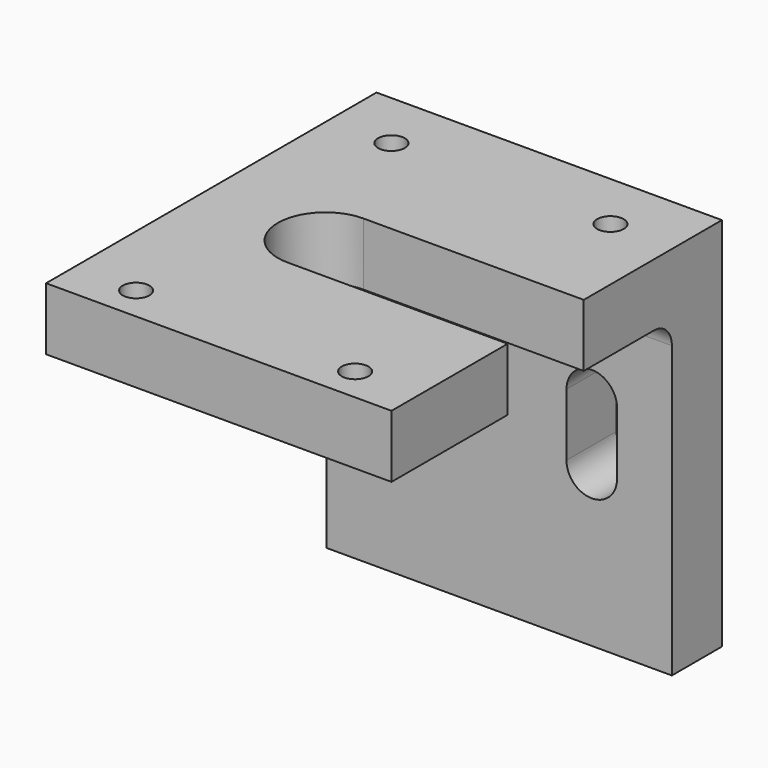
from build123d import *

# Parameters (mm, degrees)
F1_DEPTH = 17.526
F3_DEPTH = 6.35
F5_D     = 2.7051
F5_DEPTH = 8.73125
F5_TIP   = 0.8126940303
F7_DEPTH = 6.35


with BuildPart() as f1:
    # F0 (on Right) → F1 (new body, symmetric)
    with BuildSketch(Plane.YZ):
        with BuildLine():
            Line((0, 0), (-41.91, 0))
            Line((-41.91, 0), (-41.91, -6.35))
            Line((-41.91, -6.35), (-8.636, -6.35))
            ThreePointArc((-8.636, -6.35), (-7.0195538982, -7.0195538982), (-6.35, -8.636))
            Line((-6.35, -8.636), (-6.35, -38.1))
            Line((-6.35, -38.1), (0, -38.1))
            Line((0, -38.1), (0, 0))
        make_face()
    extrude(amount=F1_DEPTH, both=True)

    # F2 (on face) → F3 (cut, through all)
    with BuildSketch(Plane.XY):
        with BuildLine():
            Line((17.526, -27.178), (17.526, -17.526))
            Line((17.526, -17.526), (-4.826, -17.526))
            ThreePointArc((-4.826, -17.526), (-9.652, -22.352), (-4.826, -27.178))
            Line((-4.826, -27.178), (17.526, -27.178))
        make_face()
    extrude(amount=-F3_DEPTH, mode=Mode.SUBTRACT)

    # F5
    with Locations(Plane.XY):
        with Locations((-11.176, -6.0452), (11.049, -6.0452), (-11.176, -38.4302), (11.049, -38.4302)):
            Hole(F5_D / 2, depth=F5_DEPTH)
            with Locations((0, 0, -(F5_DEPTH + F5_TIP / 2))):  # 118° drill point
                Cone(0, F5_D / 2, F5_TIP, mode=Mode.SUBTRACT)

    # F6 (on face) → F7 (cut, through all)
    with BuildSketch(Plane(origin=(0, 0, 0), x_dir=(-1, 0, 0), z_dir=(0, 1, 0))):
        with BuildLine():
            Line((12.2174, -22.352), (12.2174, -16.002))
            ThreePointArc((12.2174, -16.002), (9.652, -13.4366), (7.0866, -16.002))
            Line((7.0866, -16.002), (7.0866, -22.352))
            ThreePointArc((7.0866, -22.352), (9.652, -24.9174), (12.2174, -22.352))
        make_face()
        with BuildLine():
            Line((-6.8326, -22.352), (-6.8326, -16.002))
            ThreePointArc((-6.8326, -16.002), (-9.398, -13.4366), (-11.9634, -16.002))
            Line((-11.9634, -16.002), (-11.9634, -22.352))
            ThreePointArc((-11.9634, -22.352), (-9.398, -24.9174), (-6.8326, -22.352))
        make_face()
    extrude(amount=-F7_DEPTH, mode=Mode.SUBTRACT)


solid = f1.part
